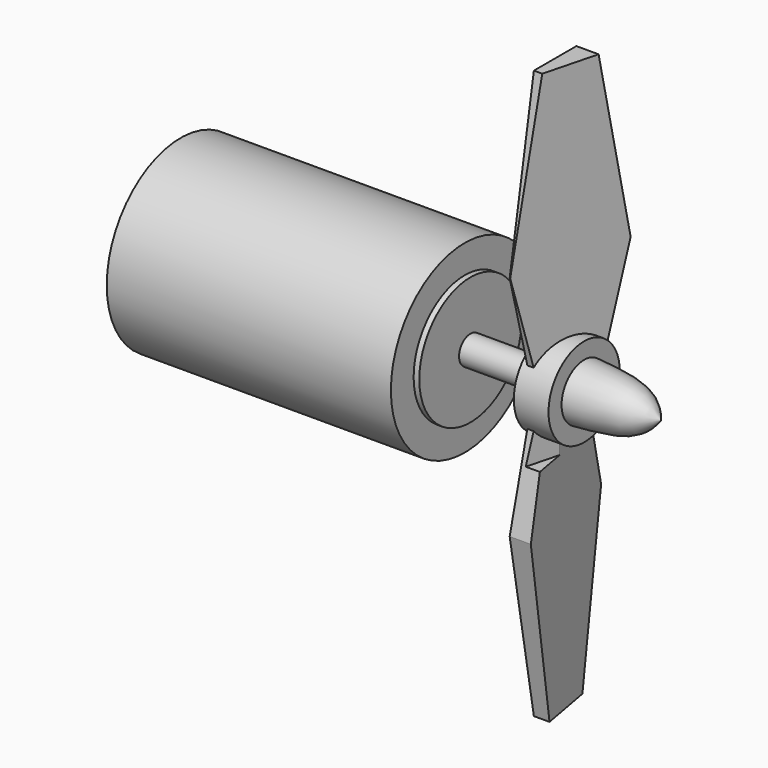
from build123d import *

# Parameters (mm, degrees)
F1_DEPTH       = 12.7
F3_DEPTH       = 254
F5_DEPTH       = 254
F5_DEPTH_BACK  = 25.4
F6_R           = 19.9026330237
F7_DEPTH       = 0.254
F7_DEPTH_BACK  = 15.24
F8_R           = 6.35
F9_DEPTH       = 25.4
F10_DEPTH      = 12.7
F10_DEPTH_BACK = 76.2
F11_R          = 28.575
F12_DEPTH      = 2.54
F12_DEPTH_BACK = 25.4
F13_R          = 41.275
F14_DEPTH      = 101.6
F14_DEPTH_BACK = 25.4


with BuildPart() as f1:
    # F0 (on Right) → F1 (new body, symmetric)
    with BuildSketch(Plane.YZ):
        with BuildLine():
            Line((-25.4, 50.8), (-15.24, 11.43))
            ThreePointArc((-15.24, 11.43), (-19.05, 0), (-15.24, -11.43))
            Line((-15.24, -11.43), (-25.4, -50.8))
            Line((-25.4, -50.8), (-11.8797372622, -127))
            Line((-11.8797372622, -127), (0, -127))
            Line((0, -127), (11.8797372622, -127))
            Line((11.8797372622, -127), (25.4, -50.8))
            Line((25.4, -50.8), (15.24, -11.43))
            ThreePointArc((15.24, -11.43), (19.05, 0), (15.24, 11.43))
            Line((15.24, 11.43), (25.4, 50.8))
            Line((25.4, 50.8), (11.8797372622, 127))
            Line((11.8797372622, 127), (0, 127))
            Line((0, 127), (-11.8797372622, 127))
            Line((-11.8797372622, 127), (-25.4, 50.8))
        make_face()
    extrude(amount=F1_DEPTH, both=True)

    # F2 (on Top) → F3 (cut)
    with BuildSketch(Plane.XY):
        Polygon((15.0384465232, 34.2237874866), (-14.059139771, 34.2237874866), (15.0384465232, -126.2663410758), align=None)
    extrude(amount=-F3_DEPTH, mode=Mode.SUBTRACT)

    # F4 (on Top) → F5 (cut, two sides)
    with BuildSketch(Plane.XY) as f5_sk:
        Polygon((7.2715352289, 50.541035831), (-13.9147825539, -30.9769567102), (33.8218561163, -30.9769567102), align=None)
    extrude(amount=F5_DEPTH, mode=Mode.SUBTRACT)
    extrude(f5_sk.sketch, amount=-F5_DEPTH_BACK, mode=Mode.SUBTRACT)

    # F6 (on Right) → F7 (join, two sides)
    with BuildSketch(Plane.YZ) as f7_sk:
        Circle(F6_R)
    extrude(amount=F7_DEPTH)
    extrude(f7_sk.sketch, amount=-F7_DEPTH_BACK)

    # F8 (on face) → F9 (cut)
    with BuildSketch(Plane.YZ.offset(0.254)):
        Circle(F8_R)
    extrude(amount=-F9_DEPTH, mode=Mode.SUBTRACT)

    # F8 (on face) → F10 (join, two sides)
    with BuildSketch(Plane.YZ.offset(0.254)) as f10_sk:
        Circle(F8_R)
    extrude(amount=F10_DEPTH)
    extrude(f10_sk.sketch, amount=-F10_DEPTH_BACK)

    # F11 (on face) → F12 (join, two sides)
    with BuildSketch(Plane(origin=(-75.946, 0, 0), x_dir=(0, -1, 0), z_dir=(-1, 0, 0))) as f12_sk:
        Circle(F11_R)
    extrude(amount=F12_DEPTH)
    extrude(f12_sk.sketch, amount=-F12_DEPTH_BACK)

    # F13 (on face) → F14 (join, two sides)
    with BuildSketch(Plane(origin=(-78.486, 0, 0), x_dir=(0, -1, 0), z_dir=(-1, 0, 0))) as f14_sk:
        Circle(F13_R)
    extrude(amount=F14_DEPTH)
    extrude(f14_sk.sketch, amount=-F14_DEPTH_BACK)

    # F15 (on Front) → F16 (revolve)
    with BuildSketch(Plane.XZ):
        with BuildLine():
            Line((34.7278043628, 0), (0, 0))
            Line((0, 0), (0, -12.609985657))
            add(Edge.make_bspline(
                [(34.7278043628, 0), (32.128238571, -3.207452008), (25.8473025253, -10.9571312029), (9.5513516448, -11.9992064822), (0, -12.609985657)],
                knots=[0, 0, 0, 0, 0.4138819075, 1, 1, 1, 1], degree=3))
        make_face()
    revolve(axis=Axis((17.3639021814, 0, 0), (1, 0, 0)))


solid = f1.part
